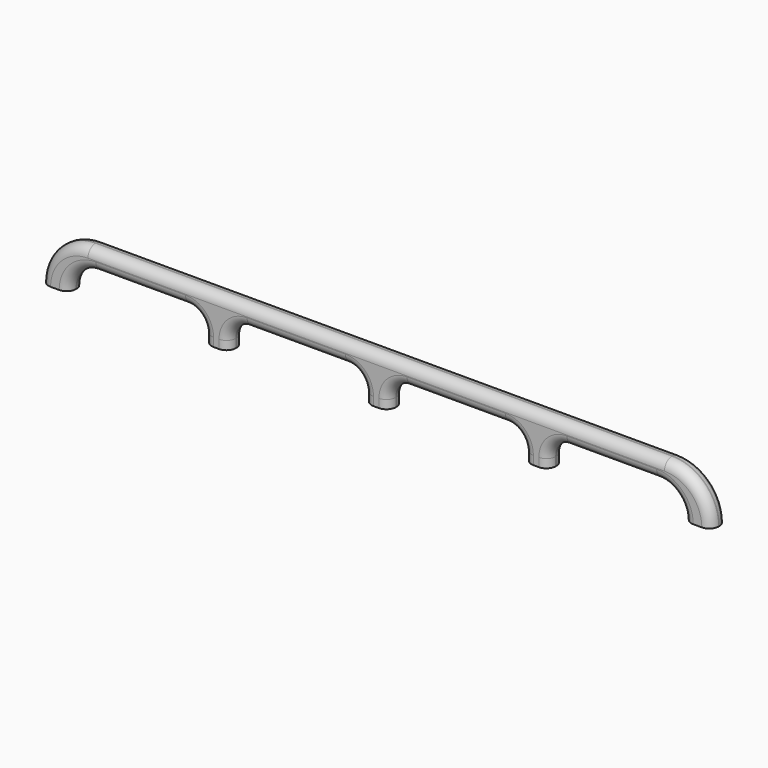
from build123d import *

# Parameters (mm, degrees)
F1_DEPTH = 12.5
F2_R     = 12


with BuildPart() as f1:
    # F0 (on Front) → F1 (new body, symmetric)
    with BuildSketch(Plane.XZ):
        with BuildLine():
            Line((0, 30), (-370, 30))
            ThreePointArc((-370, 30), (-412.4264068712, 12.4264068712), (-430, -30))
            Line((-430, -30), (-395, -30))
            ThreePointArc((-395, -30), (-384.7487373415, -5.2512626585), (-360, 5))
            Line((-360, 5), (-244.75, 5))
            ThreePointArc((-244.75, 5), (-227.7794372515, -2.0294372515), (-220.75, -19))
            Line((-220.75, -19), (-220.75, -30))
            Line((-220.75, -30), (-189.75, -30))
            Line((-189.75, -30), (-189.75, -19))
            ThreePointArc((-189.75, -19), (-182.7205627485, -2.0294372515), (-165.75, 5))
            Line((-165.75, 5), (-39.5, 5))
            ThreePointArc((-39.5, 5), (-22.5294372515, -2.0294372515), (-15.5, -19))
            Line((-15.5, -19), (-15.5, -30))
            Line((-15.5, -30), (0, -30))
            Line((0, -30), (15.5, -30))
            Line((15.5, -30), (15.5, -19))
            ThreePointArc((15.5, -19), (22.5294372515, -2.0294372515), (39.5, 5))
            Line((39.5, 5), (165.75, 5))
            ThreePointArc((165.75, 5), (182.7205627485, -2.0294372515), (189.75, -19))
            Line((189.75, -19), (189.75, -30))
            Line((189.75, -30), (220.75, -30))
            Line((220.75, -30), (220.75, -19))
            ThreePointArc((220.75, -19), (227.7794372515, -2.0294372515), (244.75, 5))
            Line((244.75, 5), (360, 5))
            ThreePointArc((360, 5), (384.7487373415, -5.2512626585), (395, -30))
            Line((395, -30), (430, -30))
            ThreePointArc((430, -30), (412.4264068712, 12.4264068712), (370, 30))
            Line((370, 30), (0, 30))
        make_face()
    extrude(amount=F1_DEPTH, both=True)

    # F2
    f2_edges = [f1.edges().sort_by_distance(p)[0] for p in [
        (-384.748737, -12.5, -5.251263),
        (-182.720563, -12.5, -2.029437),
        (22.529437, -12.5, -2.029437),
        (227.779437, -12.5, -2.029437),
        (412.426407, -12.5, 12.426407),
        (-412.426407, 12.5, 12.426407),
        (-227.779437, 12.5, -2.029437),
        (-22.529437, 12.5, -2.029437),
        (182.720563, 12.5, -2.029437),
        (384.748737, 12.5, -5.251263),
    ]]
    fillet(f2_edges, radius=F2_R)


solid = f1.part
